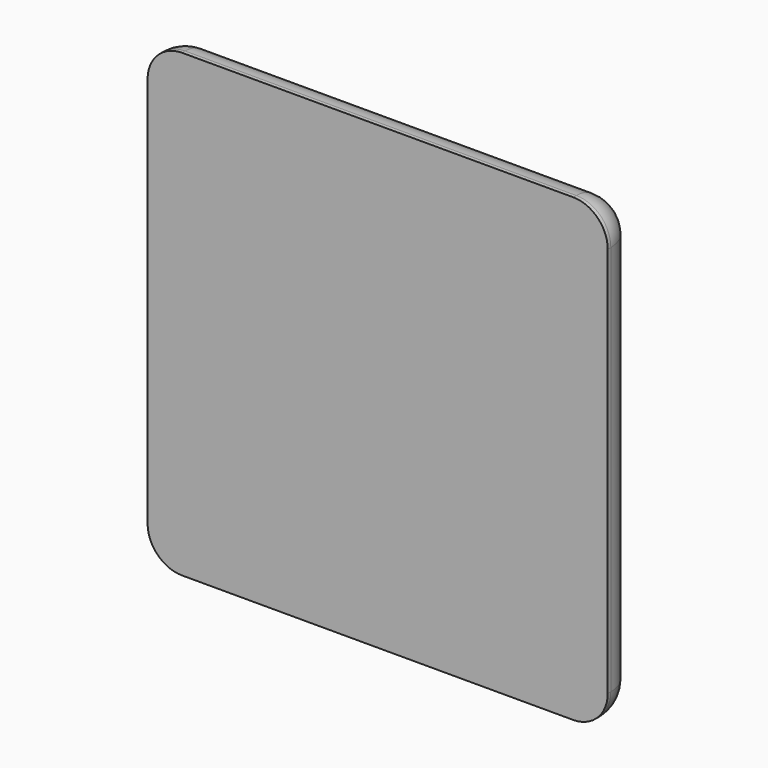
from build123d import *

# Parameters (mm, degrees)
SKETCH_W  = 120
SKETCH_H  = 120
PAD_DEPTH = 10
FILLET_R  = 9


with BuildPart() as part:
    # Sketch → Pad (new body)
    with BuildSketch(Plane.XZ):
        Rectangle(SKETCH_W, SKETCH_H)
    extrude(amount=PAD_DEPTH)

    # Fillet
    fillet_edges = [part.edges().sort_by_distance(p)[0] for p in [
        (-60, -5, 60),
        (0, 0, 60),
        (-60, 0, 0),
        (60, -5, 60),
        (60, 0, 0),
        (60, -5, -60),
        (0, 0, -60),
        (-60, -5, -60),
    ]]
    fillet(fillet_edges, radius=FILLET_R)


solid = part.part
